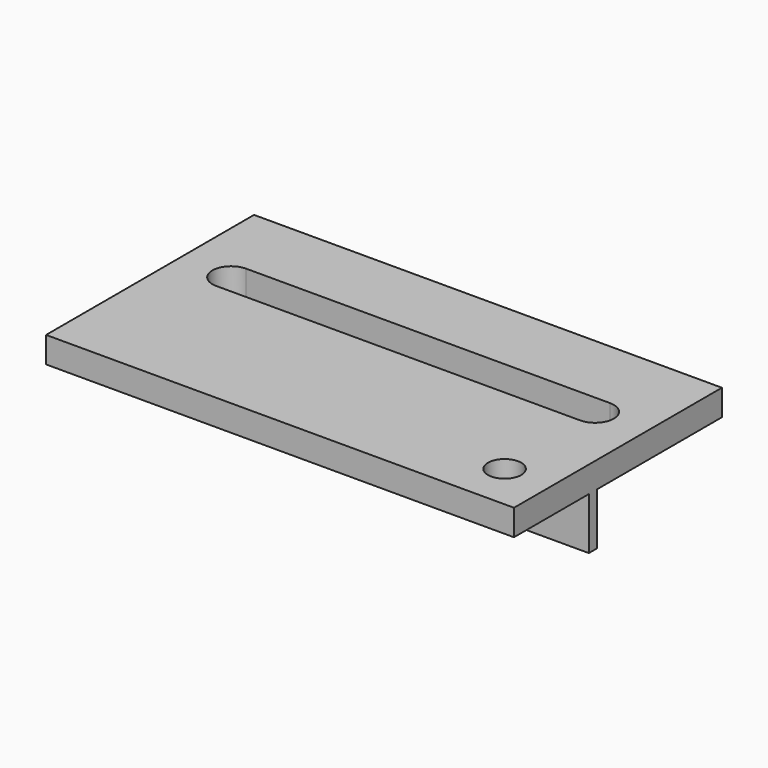
from build123d import *

# Parameters (mm, degrees)
SKETCH_W     = 45
SKETCH_H     = 25
PAD_DEPTH    = 2.5
SKETCH001_R  = 1.6
POCKET_DEPTH = 5
SKETCH002_W  = 10
SKETCH002_H  = 1
PAD001_DEPTH = 5


with BuildPart() as part:
    # Sketch → Pad (new body)
    with BuildSketch(Plane.XY):
        Rectangle(SKETCH_W, SKETCH_H)
    extrude(amount=PAD_DEPTH)

    # Sketch001 → Pocket (cut)
    with BuildSketch(Plane.XY.offset(2.5)):
        with Locations((18, -8)):
            Circle(SKETCH001_R)
        with BuildLine():
            ThreePointArc((-17.5, 5.3), (-19.3, 3.5), (-17.5, 1.7))
            Line((-17.5, 1.7), (17.5, 1.7))
            ThreePointArc((17.5, 1.7), (19.3, 3.5), (17.5, 5.3))
            Line((-17.5, 5.3), (17.5, 5.3))
        make_face()
    extrude(amount=-POCKET_DEPTH, mode=Mode.SUBTRACT)

    # Sketch002 → Pad001 (new body)
    with BuildSketch(Plane(origin=(0, 0, 0), x_dir=(1, 0, 0), z_dir=(0, 0, -1))):
        with Locations((17.5, 3)):
            Rectangle(SKETCH002_W, SKETCH002_H)
    extrude(amount=PAD001_DEPTH)


solid = part.part
